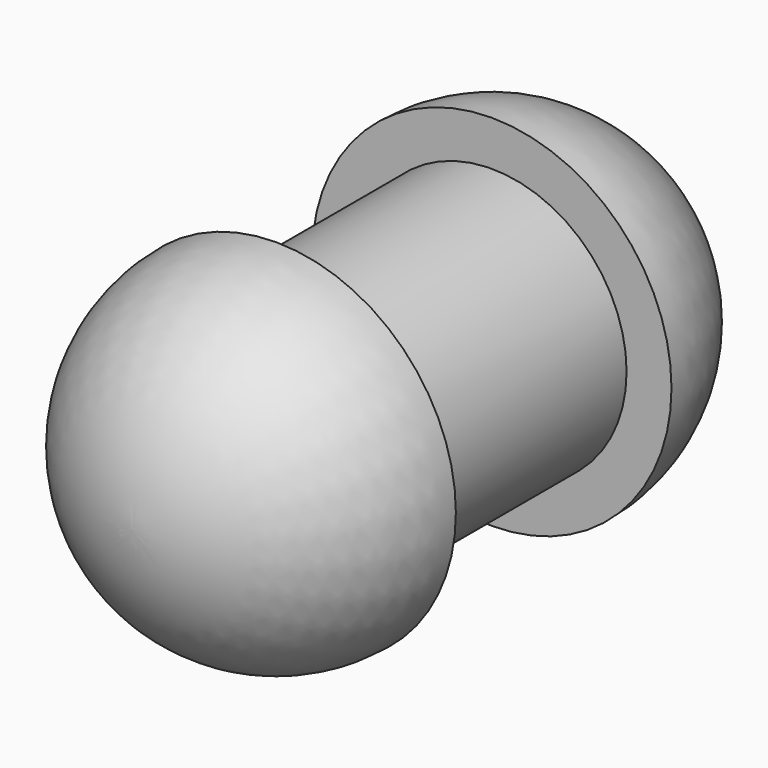
from build123d import *

# Parameters (mm, degrees)
F0_R     = 1.5
F1_DEPTH = 3


with BuildPart() as f1:
    # F0 (on Front) → F1 (new body)
    with BuildSketch(Plane.XZ):
        Circle(F0_R)
    extrude(amount=F1_DEPTH)

    # F2 (on Right) → F3 (revolve)
    with BuildSketch(Plane.YZ):
        with BuildLine():
            Line((0, 2), (0, 0))
            Line((0, 0), (2, 0))
            ThreePointArc((2, 0), (1.414214, 1.414214), (0, 2))
        make_face()
        with BuildLine():
            Line((-5, 0), (-3, 0))
            Line((-3, 0), (-3, 2))
            ThreePointArc((-3, 2), (-4.414214, 1.414214), (-5, 0))
        make_face()
    revolve(axis=Axis((0, -4, 0), (0, -1, 0)))


solid = f1.part
